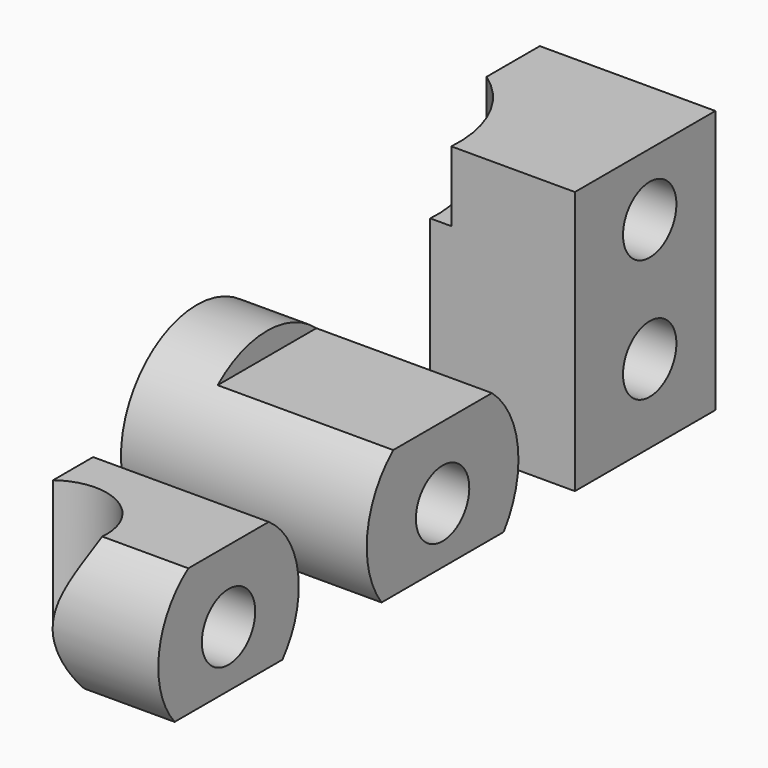
from build123d import *

# Parameters (mm, degrees)
CYLINDER007_R     = 1.9
CYLINDER007_DEPTH = 4.6
CYLINDER008_R     = 1.9
CYLINDER008_DEPTH = 4.6
CYLINDER006_R     = 1.9
CYLINDER006_DEPTH = 4.6
CYLINDER_R        = 1.9
CYLINDER_DEPTH    = 4.6
CYLINDER005_R     = 7
CYLINDER005_DEPTH = 5
CYLINDER004_R     = 5.8
CYLINDER004_DEPTH = 11.5
BOX003_W          = 15
BOX003_H          = 30
BOX003_DEPTH      = 10
BOX002_W          = 10
BOX002_H          = 30
BOX002_DEPTH      = 10
CYLINDER002_R     = 3.2
CYLINDER002_DEPTH = 12
CYLINDER003_R     = 5.4
CYLINDER003_DEPTH = 14
CYLINDER001_R     = 5
CYLINDER001_DEPTH = 10
BOX001_W          = 10
BOX001_H          = 10
BOX001_DEPTH      = 15


with BuildPart() as cylinder007:
    # Cylinder007 → Cylinder007 (new body)
    with BuildSketch(Plane(origin=(17.64, 14.885, 11.45), x_dir=(0, 0, 1), z_dir=(-1, 0, 0))):
        Circle(CYLINDER007_R)
    extrude(amount=CYLINDER007_DEPTH)


with BuildPart() as cylinder008:
    # Cylinder008 → Cylinder008 (new body)
    with BuildSketch(Plane(origin=(17.64, 0.14, 3.22), x_dir=(0, 0, 1), z_dir=(-1, 0, 0))):
        Circle(CYLINDER008_R)
    extrude(amount=CYLINDER008_DEPTH)


with BuildPart() as cylinder006:
    # Cylinder006 → Cylinder006 (new body)
    with BuildSketch(Plane(origin=(17.64, 14.885, 4.465), x_dir=(0, 0, 1), z_dir=(-1, 0, 0))):
        Circle(CYLINDER006_R)
    extrude(amount=CYLINDER006_DEPTH)


with BuildPart() as cylinder:
    # Cylinder → Cylinder (new body)
    with BuildSketch(Plane(origin=(17.64, -15.1, 3.22), x_dir=(0, 0, 1), z_dir=(-1, 0, 0))):
        Circle(CYLINDER_R)
    extrude(amount=CYLINDER_DEPTH)


with BuildPart() as cylinder005:
    # Cylinder005 → Cylinder005 (new body)
    with BuildSketch(Plane(origin=(3.62, 10.05, 11), x_dir=(1, 0, 0), z_dir=(0, 0, 1))):
        Circle(CYLINDER005_R)
    extrude(amount=CYLINDER005_DEPTH)


with BuildPart() as cylinder004:
    # Cylinder004 → Cylinder004 (new body)
    with BuildSketch(Plane(origin=(3.62, 10.05, 0), x_dir=(1, 0, 0), z_dir=(0, 0, 1))):
        Circle(CYLINDER004_R)
    extrude(amount=CYLINDER004_DEPTH)


with BuildPart() as cube003:
    # Box003 → Box003 (new body)
    with BuildSketch(Plane(origin=(2.64, -21.3, -9.985), x_dir=(1, 0, 0), z_dir=(0, 0, 1))):
        with Locations((7.5, 15)):
            Rectangle(BOX003_W, BOX003_H)
    extrude(amount=BOX003_DEPTH)


with BuildPart() as cube002:
    # Box002 → Box002 (new body)
    with BuildSketch(Plane(origin=(7.64, -21.3, 7.32), x_dir=(1, 0, 0), z_dir=(0, 0, 1))):
        with Locations((5, 15)):
            Rectangle(BOX002_W, BOX002_H)
    extrude(amount=BOX002_DEPTH)


with BuildPart() as cylinder002:
    # Cylinder002 → Cylinder002 (new body)
    with BuildSketch(Plane(origin=(9.55, -17.66, -3), x_dir=(1, 0, 0), z_dir=(0, 0, 1))):
        Circle(CYLINDER002_R)
    extrude(amount=CYLINDER002_DEPTH)


with BuildPart() as cylinder003:
    # Cylinder003 → Cylinder003 (new body)
    with BuildSketch(Plane(origin=(17.64, 0.14, 3.22), x_dir=(0, 0, 1), z_dir=(-1, 0, 0))):
        Circle(CYLINDER003_R)
    extrude(amount=CYLINDER003_DEPTH)


with BuildPart() as fusion:
    # Cylinder001 → Cylinder001 (new body)
    with BuildSketch(Plane(origin=(17.64, -15.1, 3.22), x_dir=(0, 0, 1), z_dir=(-1, 0, 0))):
        Circle(CYLINDER001_R)
    extrude(amount=CYLINDER001_DEPTH)

    # Fusion: union Cylinder003
    add(cylinder003.part)


with BuildPart() as cut008:
    # Box001 → Box001 (new body)
    with BuildSketch(Plane(origin=(7.64, 9.56, 0), x_dir=(1, 0, 0), z_dir=(0, 0, 1))):
        with Locations((5, 5)):
            Rectangle(BOX001_W, BOX001_H)
    extrude(amount=BOX001_DEPTH)

    # Fusion001: union Fusion
    add(fusion.part)

    # Cut: cut Cylinder002
    add(cylinder002.part, mode=Mode.SUBTRACT)

    # Cut001: cut Cube002
    add(cube002.part, mode=Mode.SUBTRACT)

    # Cut002: cut Cube003
    add(cube003.part, mode=Mode.SUBTRACT)

    # Cut003: cut Cylinder004
    add(cylinder004.part, mode=Mode.SUBTRACT)

    # Cut004: cut Cylinder005
    add(cylinder005.part, mode=Mode.SUBTRACT)

    # Cut005: cut Cylinder
    add(cylinder.part, mode=Mode.SUBTRACT)

    # Cut006: cut Cylinder006
    add(cylinder006.part, mode=Mode.SUBTRACT)

    # Cut007: cut Cylinder008
    add(cylinder008.part, mode=Mode.SUBTRACT)

    # Cut008: cut Cylinder007
    add(cylinder007.part, mode=Mode.SUBTRACT)


solid = cut008.part
